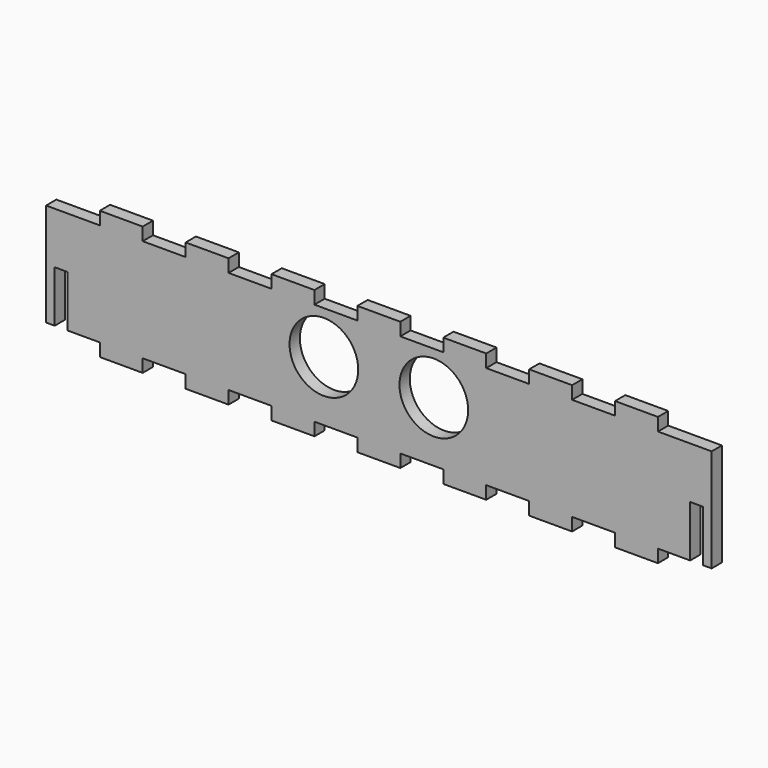
from build123d import *

# Parameters (mm, degrees)
F0_W     = 145
F0_H     = 30
F1_DEPTH = 3
F2_W     = 10
F2_H     = 3
F3_DEPTH = 25
F4_DEPTH = 5
F5_DEPTH = 5
F6_W     = 3
F6_H     = 12
F7_DEPTH = 25
F8_R     = 8
F9_DEPTH = 25


with BuildPart() as f1:
    # F0 (on Front) → F1 (new body)
    with BuildSketch(Plane.XZ):
        Rectangle(F0_W, F0_H)
    extrude(amount=F1_DEPTH)

    # F2 (on face) → F3 (cut)
    with BuildSketch(Plane.XZ.offset(3)):
        with Locations((-70, -13.5)):
            Rectangle(F2_W, F2_H)
        with Locations((-70, 13.5)):
            Rectangle(F2_W, F2_H)
        with Locations((-50, -13.5)):
            Rectangle(F2_W, F2_H)
        with Locations((-50, 13.5)):
            Rectangle(F2_W, F2_H)
        with Locations((-30, -13.5)):
            Rectangle(F2_W, F2_H)
        with Locations((-30, 13.5)):
            Rectangle(F2_W, F2_H)
        with Locations((-10, -13.5)):
            Rectangle(F2_W, F2_H)
        with Locations((-10, 13.5)):
            Rectangle(F2_W, F2_H)
        with Locations((10, -13.5)):
            Rectangle(F2_W, F2_H)
        with Locations((10, 13.5)):
            Rectangle(F2_W, F2_H)
        with Locations((30, -13.5)):
            Rectangle(F2_W, F2_H)
        with Locations((30, 13.5)):
            Rectangle(F2_W, F2_H)
        with Locations((50, -13.5)):
            Rectangle(F2_W, F2_H)
        with Locations((50, 13.5)):
            Rectangle(F2_W, F2_H)
        with Locations((70, -13.5)):
            Rectangle(F2_W, F2_H)
        with Locations((70, 13.5)):
            Rectangle(F2_W, F2_H)
    extrude(amount=-F3_DEPTH, mode=Mode.SUBTRACT)

    # F4 (add): faces of the model
    f4_faces = [f1.faces().sort_by_distance(p)[0] for p in [
        (72.5, -1.5, 0),
        (-72.5, -1.5, 0),
    ]]
    extrude(f4_faces, amount=F4_DEPTH, dir=(1, 0, 0))

    # F5 (add): a face of the model
    f5_faces = [f1.faces().sort_by_distance(p)[0] for p in [
        (-72.5, -1.5, 0),
    ]]
    extrude(f5_faces, amount=F5_DEPTH)

    # F6 (on face) → F7 (cut)
    with BuildSketch(Plane(origin=(0, 0, 0), x_dir=(-1, 0, 0), z_dir=(0, 1, 0))):
        with Locations((-74, -6)):
            Rectangle(F6_W, F6_H)
        with Locations((74, -6)):
            Rectangle(F6_W, F6_H)
    extrude(amount=-F7_DEPTH, mode=Mode.SUBTRACT)

    # F8 (on face) → F9 (cut)
    with BuildSketch(Plane.XZ.offset(3)):
        with Locations((-12.8, 2)):
            Circle(F8_R)
        with Locations((12.8, 2)):
            Circle(F8_R)
    extrude(amount=-F9_DEPTH, mode=Mode.SUBTRACT)


solid = f1.part
